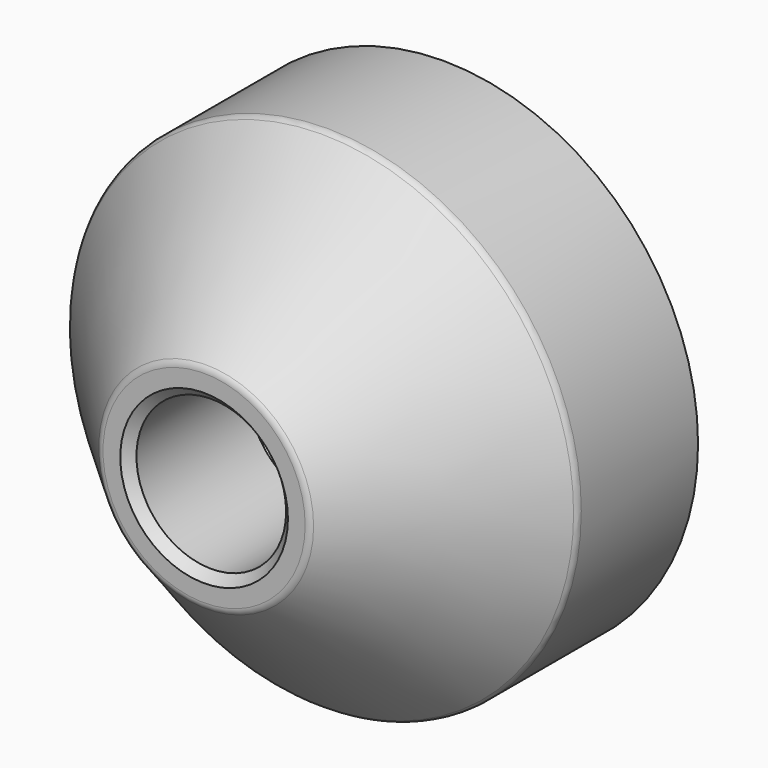
from build123d import *

# Parameters (mm, degrees)
F0_R     = 21.59
F0_R_2   = 20.6375
F1_DEPTH = 12.7
F2_R     = 21.59
F3_DEPTH = 12.7
F3_TAPER = 45
F4_R     = 0.762
F5_R     = 6.35
F6_DEPTH = 25.4
F7_SIZE  = 0.762


with BuildPart() as f1:
    # F0 (on Front) → F1 (new body)
    with BuildSketch(Plane.XZ):
        Circle(F0_R)
        Circle(F0_R_2, mode=Mode.SUBTRACT)
    extrude(amount=F1_DEPTH)

    # F2 (on face) → F3 (join)
    with BuildSketch(Plane.XZ.offset(12.7)):
        Circle(F2_R)
    extrude(amount=F3_DEPTH, taper=F3_TAPER)

    # F4
    f4_edges = [f1.edges().sort_by_distance(p)[0] for p in [
        (-21.59, -12.7, 0),
        (-8.89, -25.4, 0),
    ]]
    fillet(f4_edges, radius=F4_R)

    # F5 (on face) → F6 (cut)
    with BuildSketch(Plane.XZ.offset(25.4)):
        Circle(F5_R)
    extrude(amount=-F6_DEPTH, mode=Mode.SUBTRACT)

    # F7
    f7_edges = [f1.edges().sort_by_distance(p)[0] for p in [
        (-6.35, -25.4, 0),
        (-20.6375, 0, 0),
    ]]
    chamfer(f7_edges, length=F7_SIZE)


solid = f1.part
